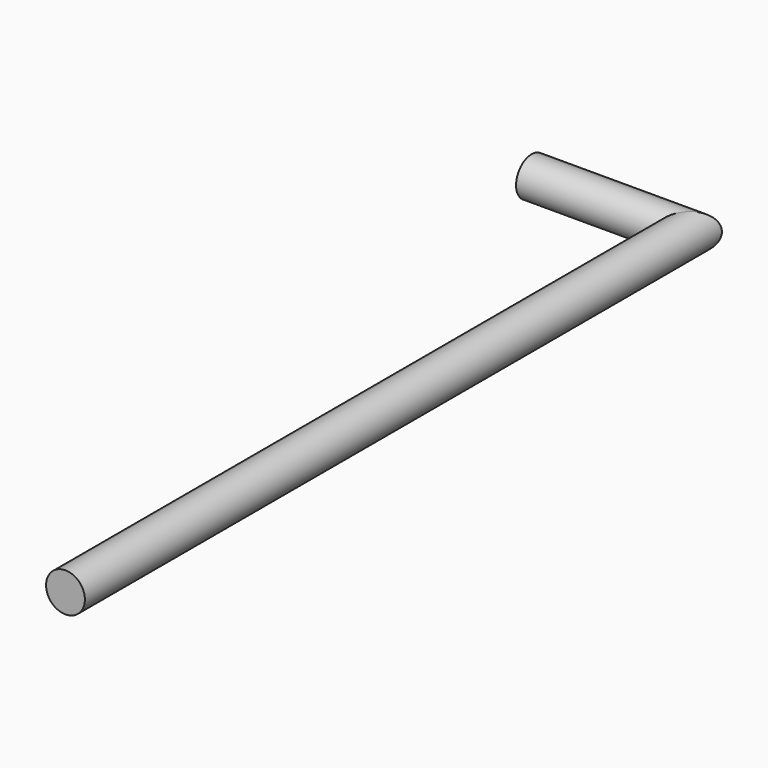
from build123d import *

# Parameters (mm, degrees)
F1_R = 1.25


with BuildPart() as f2:
    # F2: sweep along a path in F0
    with BuildLine(Plane.XY) as f2_path:
        Line((0, 0), (10, 0))
        Line((10, 0), (10, -50))
    # F1 (on Right) → F2 (sweep)
    with BuildSketch(Plane.YZ):
        Circle(F1_R)
    sweep(path=f2_path.line, transition=Transition.RIGHT)


solid = f2.part
